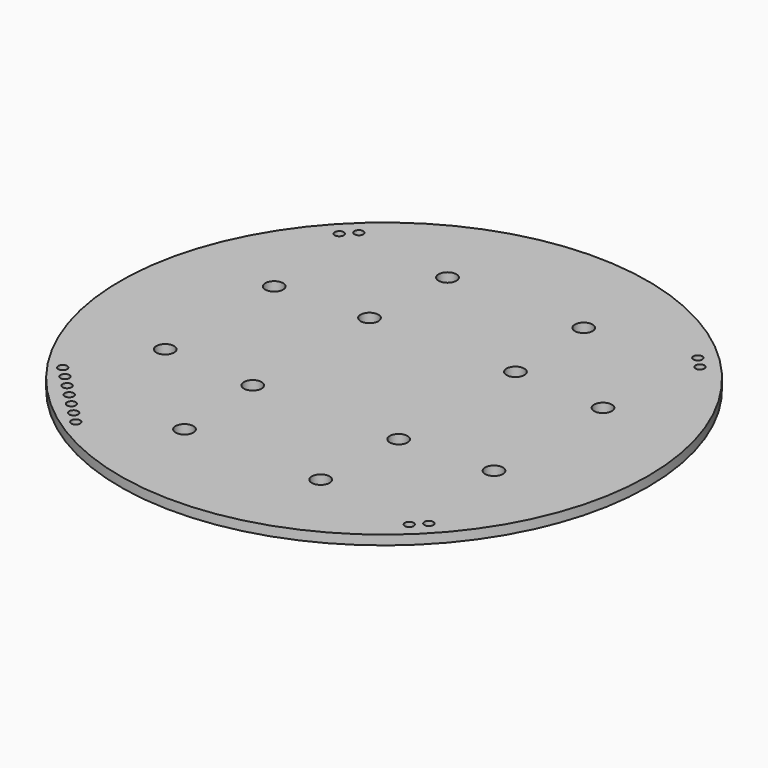
from build123d import *

# Parameters (mm, degrees)
F0_R     = 44.5
F0_R_2   = 0.75
F0_R_3   = 1.5
F1_DEPTH = 1.6


with BuildPart() as f1:
    # F0 (on Top) → F1 (new body)
    with BuildSketch(Plane.XY):
        Circle(F0_R)
        with Locations((-23.97092, -35.001786)):
            Circle(F0_R_2, mode=Mode.SUBTRACT)
        with Locations((-35.001786, -23.97092)):
            Circle(F0_R_2, mode=Mode.SUBTRACT)
        with Locations((-29.486353, -29.486353)):
            Circle(F0_R_2, mode=Mode.SUBTRACT)
        with Locations((-25.809398, -33.163308)):
            Circle(F0_R_2, mode=Mode.SUBTRACT)
        with Locations((-27.647875, -31.32483)):
            Circle(F0_R_2, mode=Mode.SUBTRACT)
        with Locations((-31.32483, -27.647875)):
            Circle(F0_R_2, mode=Mode.SUBTRACT)
        with Locations((-33.163308, -25.809398)):
            Circle(F0_R_2, mode=Mode.SUBTRACT)
        with Locations((-11.480503, -27.716386)):
            Circle(F0_R_3, mode=Mode.SUBTRACT)
        with Locations((-27.716386, -11.480503)):
            Circle(F0_R_3, mode=Mode.SUBTRACT)
        with Locations((-12.3, -12.3)):
            Circle(F0_R_3, mode=Mode.SUBTRACT)
        with Locations((11.480503, -27.716386)):
            Circle(F0_R_3, mode=Mode.SUBTRACT)
        with Locations((28.567114, -30.405592)):
            Circle(F0_R_2, mode=Mode.SUBTRACT)
        with Locations((30.405592, -28.567114)):
            Circle(F0_R_2, mode=Mode.SUBTRACT)
        with Locations((12.3, -12.3)):
            Circle(F0_R_3, mode=Mode.SUBTRACT)
        with Locations((27.716386, -11.480503)):
            Circle(F0_R_3, mode=Mode.SUBTRACT)
        with Locations((-27.716386, 11.480503)):
            Circle(F0_R_3, mode=Mode.SUBTRACT)
        with Locations((-12.3, 12.3)):
            Circle(F0_R_3, mode=Mode.SUBTRACT)
        with Locations((-30.405592, 28.567114)):
            Circle(F0_R_2, mode=Mode.SUBTRACT)
        with Locations((-28.567114, 30.405592)):
            Circle(F0_R_2, mode=Mode.SUBTRACT)
        with Locations((-11.480503, 27.716386)):
            Circle(F0_R_3, mode=Mode.SUBTRACT)
        with Locations((12.3, 12.3)):
            Circle(F0_R_3, mode=Mode.SUBTRACT)
        with Locations((27.716386, 11.480503)):
            Circle(F0_R_3, mode=Mode.SUBTRACT)
        with Locations((11.480503, 27.716386)):
            Circle(F0_R_3, mode=Mode.SUBTRACT)
        with Locations((30.405592, 28.567114)):
            Circle(F0_R_2, mode=Mode.SUBTRACT)
        with Locations((28.567114, 30.405592)):
            Circle(F0_R_2, mode=Mode.SUBTRACT)
    extrude(amount=F1_DEPTH)


solid = f1.part
